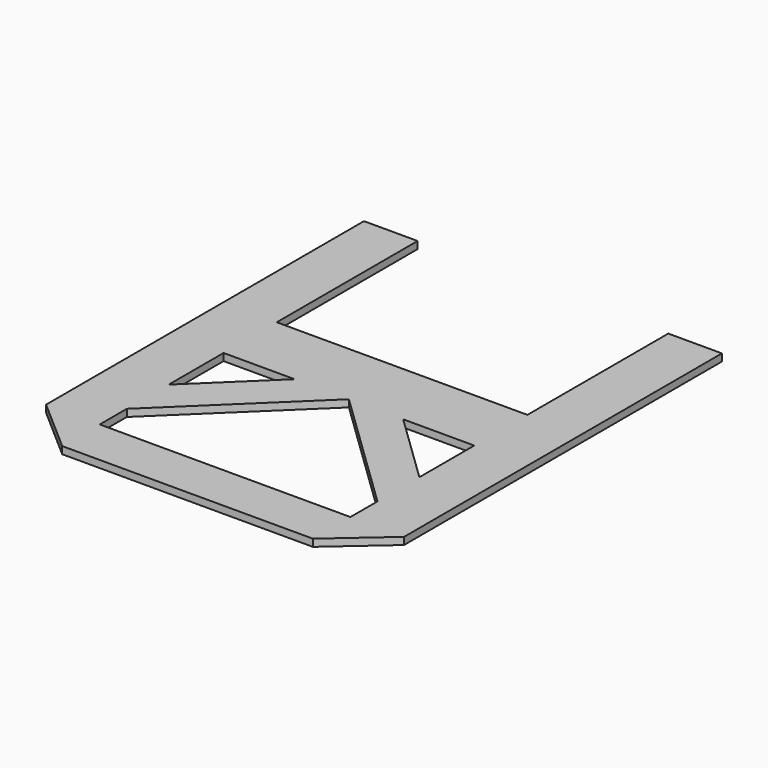
from build123d import *

# Parameters (mm, degrees)
F1_DEPTH = 1.2


with BuildPart() as f1:
    # F0 (on Top) → F1 (new body)
    with BuildSketch(Plane.XY):
        Polygon((20.888254, -36.877837), (-20.888254, -36.877837), (-20.888254, -31.238344), (-20.888254, -22.505017), (-20.888254, -11.076983), (-20.888254, 0), (-20.888254, 29.34467), (-29.831249, 29.34467), (-29.831249, -36.877837), (-20.888254, -44.694535), (0, -44.694535), (20.888254, -44.694535), (29.831249, -36.877837), (29.831249, 29.34467), (20.888254, 29.34467), (20.888254, 0), (20.888254, -11.076983), (20.888254, -22.505017), (20.888254, -31.238344), align=None)
        Polygon((-9.048197, -11.076983), (0, -11.076983), (9.048197, -11.076983), (20.888254, -11.076983), (20.888254, 0), (-20.888254, 0), (-20.888254, -11.076983), align=None)
        Polygon((-20.888254, -22.505017), (-20.888254, -31.238344), (0, -11.076983), (-9.048197, -11.076983), align=None)
        Polygon((0, -11.076983), (20.888254, -31.238344), (20.888254, -22.505017), (9.048197, -11.076983), align=None)
    extrude(amount=F1_DEPTH)


solid = f1.part
